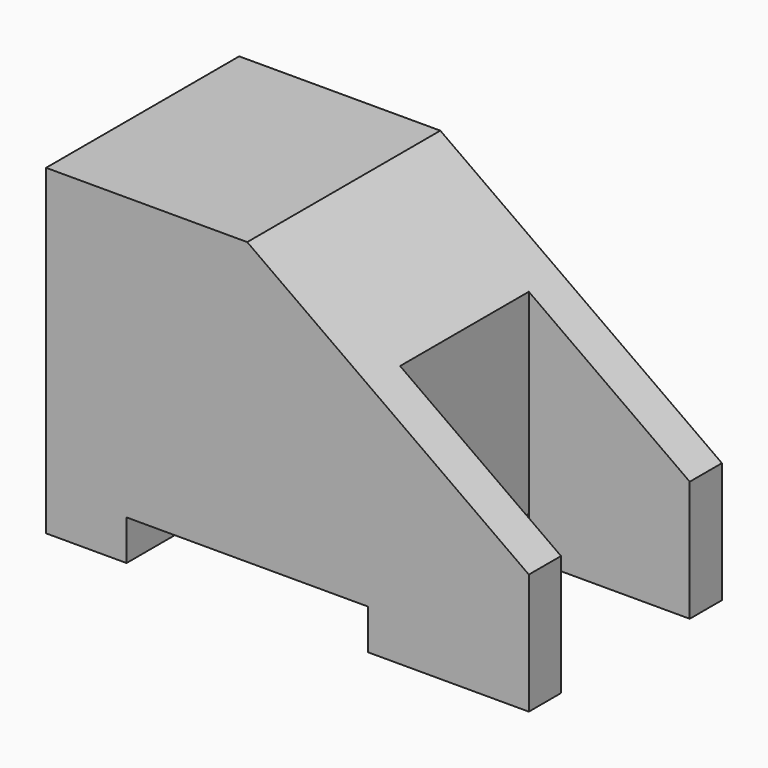
from build123d import *

# Parameters (mm, degrees)
F1_DEPTH = 15
F2_W     = 10
F2_H     = 7.5
F3_DEPTH = 10


with BuildPart() as f1:
    # F0 (on Front) → F1 (new body)
    with BuildSketch(Plane.XZ):
        Polygon((0, 20), (0, 0), (5, 0), (5, 2.5), (20, 2.5), (20, 0), (30, 0), (30, 7.5), (12.5, 20), align=None)
    extrude(amount=-F1_DEPTH)

    # F2 (on face) → F3 (cut)
    with BuildSketch(Plane.YZ.offset(30)):
        with Locations((7.5, 11.25)):
            Rectangle(F2_W, F2_H)
        with Locations((7.5, 3.75)):
            Rectangle(F2_W, F2_H)
    extrude(amount=-F3_DEPTH, mode=Mode.SUBTRACT)


solid = f1.part
